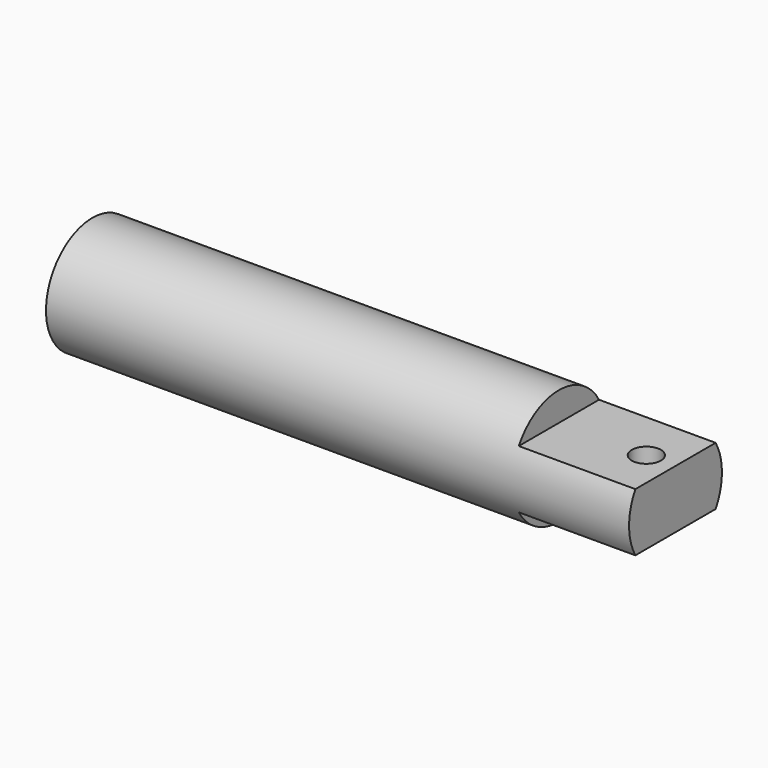
from build123d import *

# Parameters (mm, degrees)
F0_R     = 12.6365
F1_DEPTH = 127
F2_W     = 25.4
F2_H     = 10.367627
F3_DEPTH = 12.7
F4_R     = 3.175
F5_DEPTH = 12.7


with BuildPart() as f1:
    # F0 (on Right) → F1 (new body)
    with BuildSketch(Plane.YZ):
        Circle(F0_R)
    extrude(amount=-F1_DEPTH)

    # F2 (on Front) → F3 (cut, symmetric)
    with BuildSketch(Plane.XZ):
        with Locations((-12.7, 11.533814)):
            Rectangle(F2_W, F2_H)
        with Locations((-12.7, -11.533814)):
            Rectangle(F2_W, F2_H)
    extrude(amount=F3_DEPTH, both=True, mode=Mode.SUBTRACT)

    # F4 (on Top) → F5 (cut, symmetric)
    with BuildSketch(Plane.XY):
        with Locations((-6.35, 0)):
            Circle(F4_R)
    extrude(amount=F5_DEPTH, both=True, mode=Mode.SUBTRACT)

    # F6 (on Front) → F7 (revolve, cut)
    with BuildSketch(Plane.XZ):
        with BuildLine():
            Line((-146.05, 0), (-120.65, 0))
            ThreePointArc((-120.65, 0), (-133.35, 12.7), (-146.05, 0))
        make_face()
    revolve(axis=Axis((-76.698596, 0, 0), (-1, 0, 0)), mode=Mode.SUBTRACT)


solid = f1.part
